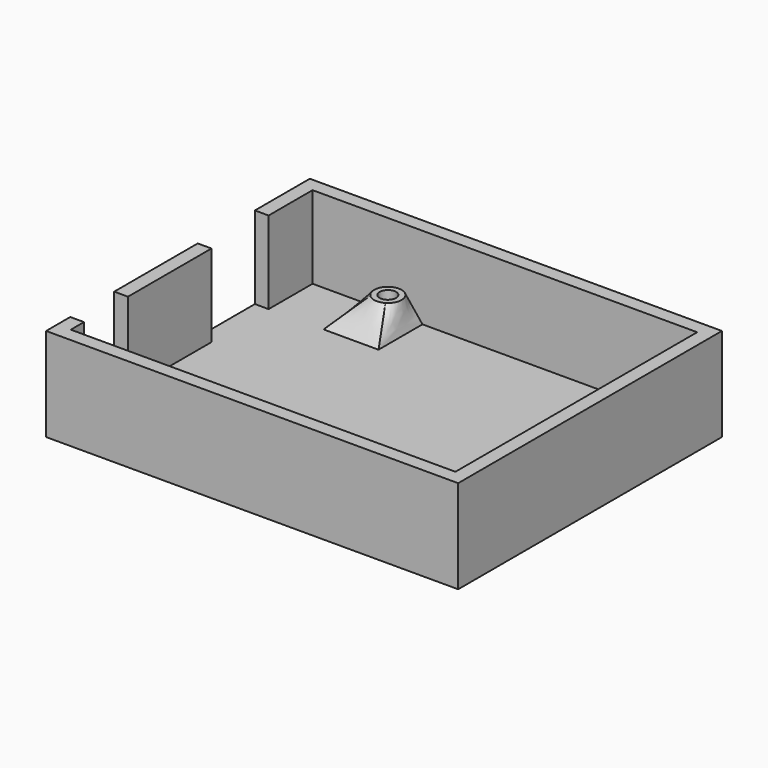
from build123d import *

# Parameters (mm, degrees)
F0_W      = 75
F0_H      = 60
F1_DEPTH  = 2
F2_W      = 75
F2_H      = 60
F2_W_2    = 70
F2_H_2    = 55
F3_DEPTH  = 15
F4_W      = 10
F4_H      = 10
F4_H_2    = 12
F11_D     = 3
F12_W     = 10
F12_H     = 15
F12_W_2   = 13
F13_DEPTH = 2.5


with BuildPart() as f1:
    # F0 (on Top) → F1 (new body)
    with BuildSketch(Plane.XY):
        Rectangle(F0_W, F0_H)
    extrude(amount=F1_DEPTH)

    # F2 (on face) → F3 (join)
    with BuildSketch(Plane.XY.offset(2)):
        Rectangle(F2_W, F2_H)
        Rectangle(F2_W_2, F2_H_2, mode=Mode.SUBTRACT)
    extrude(amount=F3_DEPTH)

    # F4 (on face) → F7 section 0
    with BuildSketch(Plane.XY.offset(2)):
        with Locations((-20, 22.5)):
            Rectangle(F4_W, F4_H)
    # F6 (on offset) → F7 section 1
    with BuildSketch(Plane.XY.offset(7)):
        with BuildLine():
            ThreePointArc((-20.293224, 22.258062), (-18.819991, 21.520563), (-17.207788, 21.859863))
            ThreePointArc((-17.207788, 21.859863), (-16.000779, 23.937586), (-17.102572, 26.072968))
            ThreePointArc((-17.102572, 26.072968), (-18.99862, 26.449771), (-20.596534, 25.361817))
            ThreePointArc((-20.596534, 25.361817), (-20.988147, 23.756849), (-20.293224, 22.258062))
        make_face()
    loft()

    # F4 (on face) → F8 section 0
    with BuildSketch(Plane.XY.offset(2)):
        with Locations((30, 7.5)):
            Rectangle(F4_W, F4_H)
    # F6 (on offset) → F8 section 1
    with BuildSketch(Plane.XY.offset(7)):
        with BuildLine():
            ThreePointArc((29.818347, 6.650123), (31.321839, 6.006356), (32.901582, 6.429838))
            ThreePointArc((32.901582, 6.429838), (33.991199, 8.290416), (33.227758, 10.306891))
            ThreePointArc((33.227758, 10.306891), (31.280438, 10.99034), (29.482742, 9.976709))
            ThreePointArc((29.482742, 9.976709), (29.012626, 8.249059), (29.818347, 6.650123))
        make_face()
    loft()

    # F4 (on face) → F9 section 0
    with BuildSketch(Plane.XY.offset(2)):
        with Locations((30, -21.5)):
            Rectangle(F4_W, F4_H_2)
    # F6 (on offset) → F9 section 1
    with BuildSketch(Plane.XY.offset(7)):
        with BuildLine():
            ThreePointArc((29.529474, -17.961486), (29.007923, -19.698875), (29.798415, -21.331559))
            ThreePointArc((29.798415, -21.331559), (31.356554, -21.995881), (32.980542, -21.514447))
            ThreePointArc((32.980542, -21.514447), (33.997404, -19.613892), (33.157749, -17.628672))
            ThreePointArc((33.157749, -17.628672), (31.271639, -17.010452), (29.529474, -17.961486))
        make_face()
    loft()

    # F4 (on face) → F10 section 0
    with BuildSketch(Plane.XY.offset(2)):
        with Locations((-20, -22.5)):
            Rectangle(F4_W, F4_H)
    # F6 (on offset) → F10 section 1
    with BuildSketch(Plane.XY.offset(7)):
        with BuildLine():
            ThreePointArc((-19.030994, -21.977126), (-20.71328, -21.509114), (-22.291516, -22.256305))
            ThreePointArc((-22.291516, -22.256305), (-22.998858, -23.92446), (-22.393571, -25.632296))
            ThreePointArc((-22.393571, -25.632296), (-20.449964, -26.499499), (-18.54262, -25.555205))
            ThreePointArc((-18.54262, -25.555205), (-18.022967, -23.661909), (-19.030994, -21.977126))
        make_face()
    loft()

    # F11 (through all)
    with Locations(Plane.XY.offset(7)):
        with Locations((-18.5, 24), (31.5, 8.5), (31.5, -19.5), (-20.5, -24)):
            Hole(F11_D / 2)

    # F12 (on face) → F13 (cut, through all)
    with BuildSketch(Plane.YZ.offset(-35)):
        with Locations((-19.5, 9.5)):
            Rectangle(F12_W, F12_H)
        with Locations((11, 9.5)):
            Rectangle(F12_W_2, F12_H)
    extrude(amount=-F13_DEPTH, mode=Mode.SUBTRACT)


solid = f1.part
